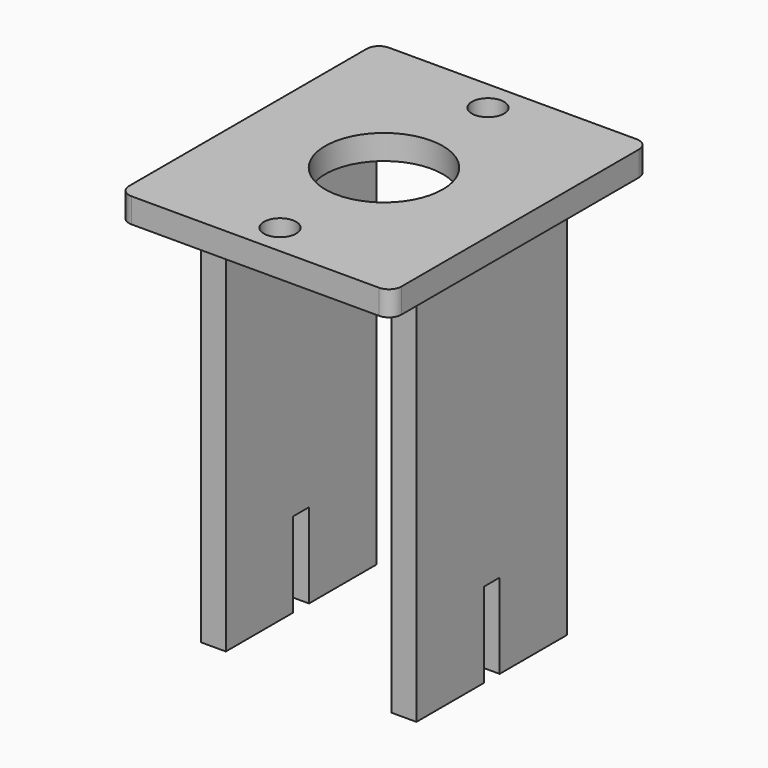
from build123d import *

# Parameters (mm, degrees)
SKETCH004_W     = 22
SKETCH004_H     = 26
PAD003_DEPTH    = 2
SKETCH011_R     = 4.75
POCKET004_DEPTH = 2.001
SKETCH012_W     = 2
SKETCH012_H     = 15.2
PAD006_DEPTH    = 31.5
SKETCH014_R     = 1.3
POCKET006_DEPTH = 33.501
SKETCH015_W     = 18.2
SKETCH015_H     = 1.6
POCKET007_DEPTH = 6.85
FILLET_R        = 1


with BuildPart() as part:
    # Sketch004 → Pad003 (new body)
    with BuildSketch(Plane.XY):
        Rectangle(SKETCH004_W, SKETCH004_H)
    extrude(amount=PAD003_DEPTH)

    # Sketch011 (on Face6 of Pad003) → Pocket004 (cut, through all)
    with BuildSketch(Plane.XY.offset(2)):
        Circle(SKETCH011_R)
    extrude(amount=-POCKET004_DEPTH, mode=Mode.SUBTRACT)

    # Sketch012 (on Face4 of Pocket004) → Pad006 (join)
    with BuildSketch(Plane(origin=(0, 0, 0), x_dir=(1, 0, 0), z_dir=(0, 0, -1))):
        with Locations((-7.7, 0)):
            Rectangle(SKETCH012_W, SKETCH012_H)
        with Locations((7.7, 0)):
            Rectangle(SKETCH012_W, SKETCH012_H)
    extrude(amount=PAD006_DEPTH)

    # Sketch014 (on Face5 of Pad006) → Pocket006 (cut, through all)
    with BuildSketch(Plane.XY.offset(2)):
        with Locations((0, 10.5)):
            Circle(SKETCH014_R)
        with Locations((0, -10.5)):
            Circle(SKETCH014_R)
    extrude(amount=-POCKET006_DEPTH, mode=Mode.SUBTRACT)

    # Sketch015 (on Face18 of Pocket006) → Pocket007 (cut)
    with BuildSketch(Plane(origin=(0, 0, -31.5), x_dir=(1, 0, 0), z_dir=(0, 0, -1))):
        Rectangle(SKETCH015_W, SKETCH015_H)
    extrude(amount=-POCKET007_DEPTH, mode=Mode.SUBTRACT)

    # Fillet
    fillet_edges = [part.edges().sort_by_distance(p)[0] for p in [
        (11, -13, 1),
        (11, 13, 1),
        (-11, 13, 1),
        (-11, -13, 1),
    ]]
    fillet(fillet_edges, radius=FILLET_R)


with BuildPart() as part_1:
    # Body001 placement: moved
    add(part.part.moved(Location((0, 0, 48))))


solid = part_1.part
